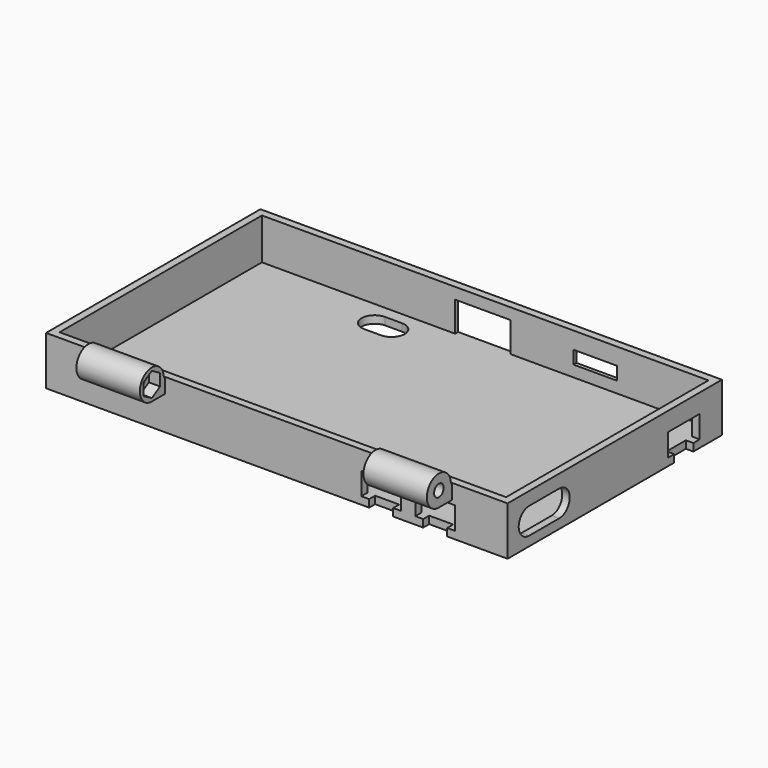
from build123d import *

# Parameters (mm, degrees)
SKETCH035_R          = 1.6
PAD_DEPTH            = 61.5
PAD_DEPTH_BACK       = 61.5
SKETCH038_W          = 14.8
SKETCH038_H          = 8
SKETCH038_W_2        = 59.6
POCKET001_DEPTH      = 4
POCKET001_DEPTH_BACK = 4
SKETCH039_W          = 119
SKETCH039_H          = 67.4
POCKET002_DEPTH      = 11
POCKET003_DEPTH      = 13.001
SKETCH041_W          = 11.6
SKETCH041_H          = 3.5
SKETCH041_W_2        = 14.8
SKETCH041_H_2        = 8
POCKET004_DEPTH      = 2
POCKET005_DEPTH      = 2
POCKET006_DEPTH      = 2
POCKET011_DEPTH      = 3
POCKET012_DEPTH      = 3
SKETCH051_W          = 14.8
SKETCH051_H          = 4
SKETCH051_W_2        = 59.6
POCKET013_DEPTH      = 0.4
CHAMFER_SIZE         = 1


with BuildPart() as part:
    # Sketch035 (on Face1 of Binder) → Pad (new body, two sides)
    with BuildSketch(Plane.YZ) as pad_sk:
        with BuildLine():
            ThreePointArc((4, 0), (-2.828418, 2.828436), (-2.6e-05, -4))
            Line((-2.6e-05, -4), (4.4, -4))
            Line((4.4, -4), (4.4, -13))
            Line((4.4, -13), (75.8, -13))
            Line((75.8, -13), (75.8, 0))
            Line((75.8, 0), (4, 0))
        make_face()
        Circle(SKETCH035_R, mode=Mode.SUBTRACT)
    extrude(amount=PAD_DEPTH)
    extrude(pad_sk.sketch, amount=-PAD_DEPTH_BACK)

    # Sketch038 → Pocket001 (cut, two sides)
    with BuildSketch(Plane.XY) as pocket001_sk:
        with Locations((-54.1, 0)):
            Rectangle(SKETCH038_W, SKETCH038_H)
        Rectangle(SKETCH038_W_2, SKETCH038_H)
        with Locations((54.1, 0)):
            Rectangle(SKETCH038_W, SKETCH038_H)
    extrude(amount=-POCKET001_DEPTH, mode=Mode.SUBTRACT)
    extrude(pocket001_sk.sketch, amount=POCKET001_DEPTH_BACK, mode=Mode.SUBTRACT)

    # Sketch039 → Pocket002 (cut)
    with BuildSketch(Plane.XY):
        with Locations((0, 40.1)):
            Rectangle(SKETCH039_W, SKETCH039_H)
    extrude(amount=-POCKET002_DEPTH, mode=Mode.SUBTRACT)

    # Sketch040 → Pocket003 (cut, through all)
    with BuildSketch(Plane.XY):
        with BuildLine():
            ThreePointArc((-24.1, 70.6), (-27.6, 67.1), (-24.1, 63.6))
            Line((-24.1, 63.6), (-19.6, 63.6))
            ThreePointArc((-19.6, 63.6), (-16.1, 67.1), (-19.6, 70.6))
            Line((-24.1, 70.6), (-19.6, 70.6))
        make_face()
    extrude(amount=-POCKET003_DEPTH, mode=Mode.SUBTRACT)

    # Sketch041 (on Face16 of Pocket003) → Pocket004 (cut)
    with BuildSketch(Plane(origin=(0, 75.8, 0), x_dir=(-1, 0, 0), z_dir=(0, 1, 0))):
        with Locations((-29.3, -6.25)):
            Rectangle(SKETCH041_W, SKETCH041_H)
        with Locations((0.6, -7)):
            Rectangle(SKETCH041_W_2, SKETCH041_H_2)
    extrude(amount=-POCKET004_DEPTH, mode=Mode.SUBTRACT)

    # Sketch042 (on Face9 of Pocket004) → Pocket005 (cut)
    with BuildSketch(Plane.XZ.offset(-4.4)):
        Polygon((22.5, -5), (33.1, -5), (33.1, -11), (31, -11), (31, -13), (24.6, -13), (24.6, -11), (22.5, -11), align=None)
        Polygon((36.9, -5), (36.9, -11), (39, -11), (39, -13), (45.4, -13), (45.4, -11), (47.5, -11), (47.5, -5), align=None)
    extrude(amount=-POCKET005_DEPTH, mode=Mode.SUBTRACT)

    # Sketch043 (on Face10 of Pocket005) → Pocket006 (cut)
    with BuildSketch(Plane.YZ.offset(61.5)):
        Polygon((57.8, -5), (68.4, -5), (68.4, -11), (66.3, -11), (66.3, -13), (59.9, -13), (59.9, -11), (57.8, -11), align=None)
        with BuildLine():
            Line((11.6, -3.5), (21.6, -3.5))
            ThreePointArc((21.6, -10.5), (25.1, -7), (21.6, -3.5))
            Line((21.6, -10.5), (11.6, -10.5))
            ThreePointArc((11.6, -3.5), (8.1, -7), (11.6, -10.5))
        make_face()
    extrude(amount=-POCKET006_DEPTH, mode=Mode.SUBTRACT)

    # Sketch049 (on Face14 of Pocket006) → Pocket011 (cut)
    with BuildSketch(Plane(origin=(29.8, 0, 0), x_dir=(0, -1, 0), z_dir=(-1, 0, 0))):
        Polygon((2.771281, 1.6), (0, 3.2), (-2.771281, 1.6), (-2.771281, -1.6), (0, -3.2), (2.771281, -1.6), align=None)
    extrude(amount=-POCKET011_DEPTH, mode=Mode.SUBTRACT)

    # Sketch050 (on Face4 of Pocket011) → Pocket012 (cut)
    with BuildSketch(Plane.YZ.offset(-29.8)):
        Polygon((2.771281, -1.6), (2.771281, 1.6), (0, 3.2), (-2.771281, 1.6), (-2.771281, -1.6), (0, -3.2), align=None)
    extrude(amount=-POCKET012_DEPTH, mode=Mode.SUBTRACT)

    # Sketch051 (on Face15 of Pocket012) → Pocket013 (cut)
    with BuildSketch(Plane.XZ.offset(-4)):
        with Locations((54.1, -2)):
            Rectangle(SKETCH051_W, SKETCH051_H)
        with Locations((0, -2)):
            Rectangle(SKETCH051_W_2, SKETCH051_H)
        with Locations((-54.1, -2)):
            Rectangle(SKETCH051_W, SKETCH051_H)
    extrude(amount=-POCKET013_DEPTH, mode=Mode.SUBTRACT)

    # Chamfer
    chamfer_edges = [part.edges().sort_by_distance(p)[0] for p in [
        (35.1, 75.8, -6.25),
        (29.3, 75.8, -4.5),
        (23.5, 75.8, -6.25),
        (29.3, 75.8, -8),
        (6.8, 75.8, -7),
        (-8, 75.8, -7),
        (-0.6, 75.8, -3),
        (-0.6, 75.8, -11),
    ]]
    chamfer(chamfer_edges, length=CHAMFER_SIZE)


solid = part.part
